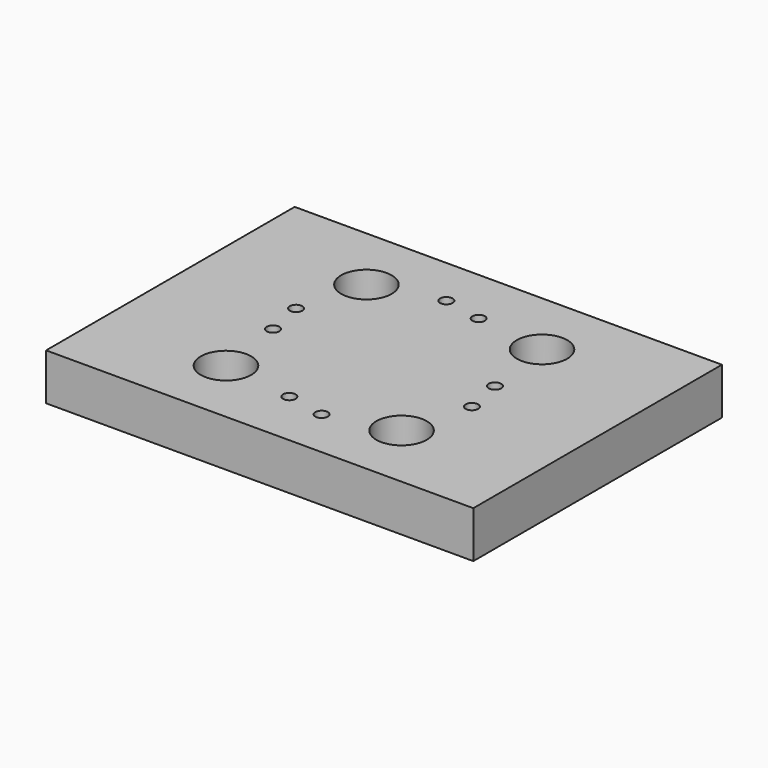
from build123d import *

# Parameters (mm, degrees)
F0_W     = 174.625
F0_H     = 127
F1_DEPTH = 19.05
F3_D     = 20.6248
F5_D     = 5.1054


with BuildPart() as f1:
    # F0 (on Top) → F1 (new body)
    with BuildSketch(Plane.XY):
        Rectangle(F0_W, F0_H)
    extrude(amount=F1_DEPTH)

    # F3 (through all)
    with Locations(Plane.XY.offset(19.05)):
        with Locations((-35.8775, 35.8775), (-35.8775, -35.8775), (35.8775, 35.8775), (35.8775, -35.8775)):
            Hole(F3_D / 2)

    # F5 (through all)
    with Locations(Plane.XY.offset(19.05)):
        with Locations((-8.9802561211, 43.1052293811), (6.7351920908, 39.9621397388), (-43.1052293811, 8.9802561211), (-39.9621397388, -6.7351920908), (-6.7351920908, -39.9621397388), (8.9802561211, -43.1052293811), (43.1052293811, -8.9802561211), (39.9621397388, 6.7351920908)):
            Hole(F5_D / 2)


solid = f1.part
